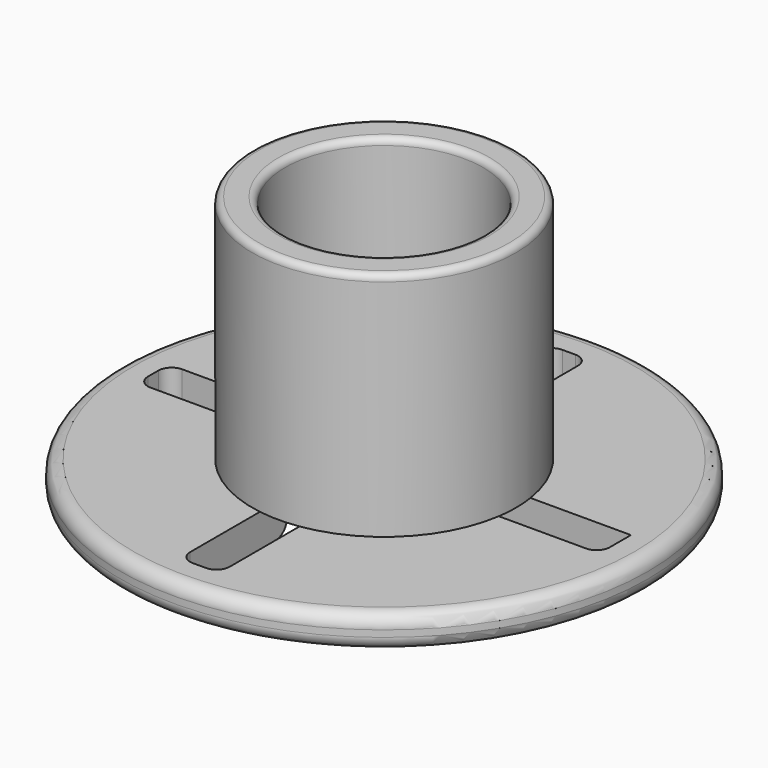
from build123d import *

# Parameters (mm, degrees)
SKETCH_R        = 40
PAD_DEPTH       = 5
SKETCH001_R     = 20
PAD001_DEPTH    = 35
SKETCH002_R     = 15
POCKET_DEPTH    = 40.001
POCKET001_DEPTH = 5
FILLET_R        = 2
FILLET001_R     = 2
FILLET002_R     = 1
FILLET003_R     = 2


with BuildPart() as part:
    # Sketch → Pad (new body)
    with BuildSketch(Plane.XY):
        Circle(SKETCH_R)
    extrude(amount=PAD_DEPTH)

    # Sketch001 (on Face3 of Pad) → Pad001 (join)
    with BuildSketch(Plane.XY.offset(5)):
        Circle(SKETCH001_R)
    extrude(amount=PAD001_DEPTH)

    # Sketch002 (on Face5 of Pad001) → Pocket (cut, through all)
    with BuildSketch(Plane.XY.offset(40)):
        Circle(SKETCH002_R)
    extrude(amount=-POCKET_DEPTH, mode=Mode.SUBTRACT)

    # Sketch003 (on Face2 of Pocket) → Pocket001 (cut)
    with BuildSketch(Plane(origin=(0, 0, 0), x_dir=(1, 0, 0), z_dir=(0, 0, -1))):
        Polygon((-3, 35), (-3, 3), (-35, 3), (-35, -3), (-3, -3), (-3, -35), (3, -35), (3, -3), (35, -3), (35, 3), (3, 3), (3, 35), align=None)
    extrude(amount=-POCKET001_DEPTH, mode=Mode.SUBTRACT)

    # Fillet
    fillet_edges = [part.edges().sort_by_distance(p)[0] for p in [
        (-3, -35, 2.5),
        (3, -35, 2.5),
        (35, -3, 2.5),
        (-35, -3, 2.5),
        (-35, 3, 2.5),
        (-3, 35, 2.5),
        (3, 35, 2.5),
    ]]
    fillet(fillet_edges, radius=FILLET_R)

    # Fillet001
    fillet001_edges = [part.edges().sort_by_distance(p)[0] for p in [
        (10.606602, -10.606602, 0),
        (10.606602, 10.606602, 0),
        (-10.606602, 10.606602, 0),
        (-10.606602, -10.606602, 0),
    ]]
    fillet(fillet001_edges, radius=FILLET001_R)

    # Fillet002
    fillet002_edges = [part.edges().sort_by_distance(p)[0] for p in [
        (-20, 0, 40),
        (-15, 0, 40),
        (0, -15, 5),
        (14.924042, -1.507634, 5),
        (0, 15, 5),
        (-15, 0, 5),
    ]]
    fillet(fillet002_edges, radius=FILLET002_R)

    # Fillet003
    fillet003_edges = [part.edges().sort_by_distance(p)[0] for p in [
        (-40, 0, 5),
        (-40, 0, 0),
    ]]
    fillet(fillet003_edges, radius=FILLET003_R)


solid = part.part
